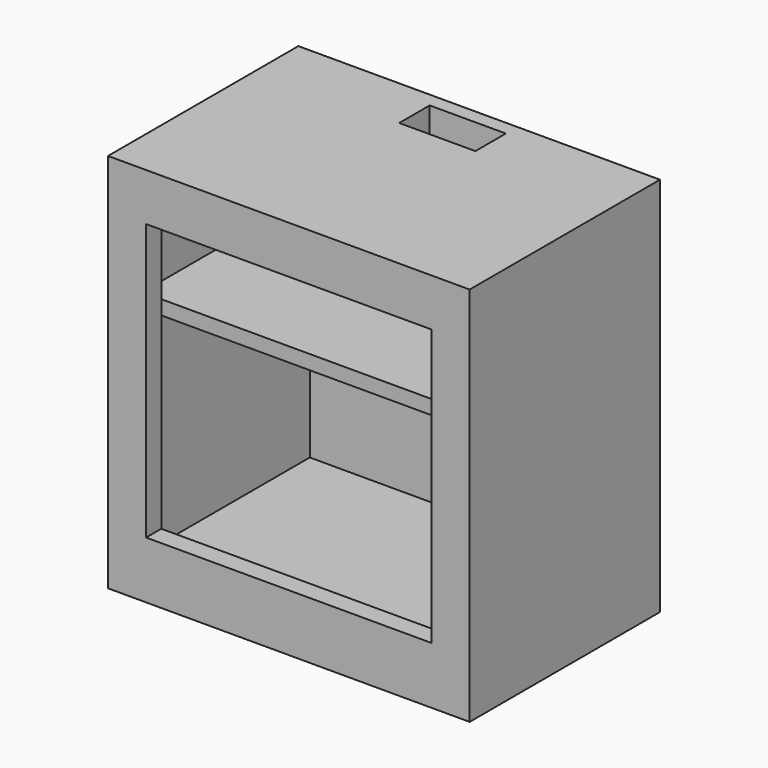
from build123d import *

# Parameters (mm, degrees)
F0_W      = 965.2
F0_H      = 635
F1_DEPTH  = 1016
F2_W      = 863.6
F2_H      = 863.6
F3_DEPTH  = 609.6
F4_W      = 203.2
F4_H      = 101.6
F5_DEPTH  = 762
F6_W      = 50.8
F6_H      = 1016
F7_DEPTH  = 101.6
F8_W      = 50.8
F8_H      = 1016
F9_DEPTH  = 101.6
F10_W     = 965.2
F10_H     = 50.8
F11_DEPTH = 152.4
F12_W     = 965.2
F12_H     = 50.8
F13_DEPTH = 127
F14_W     = 482.6
F14_H     = 38.1
F15_DEPTH = 965.2


with BuildPart() as f1:
    # F0 (on Top) → F1 (new body)
    with BuildSketch(Plane.XY):
        Rectangle(F0_W, F0_H)
    extrude(amount=F1_DEPTH)

    # F2 (on face) → F3 (cut)
    with BuildSketch(Plane.XZ.offset(317.5)):
        with Locations((0, 508)):
            Rectangle(F2_W, F2_H)
    extrude(amount=-F3_DEPTH, mode=Mode.SUBTRACT)

    # F4 (on face) → F5 (cut)
    with BuildSketch(Plane.XY.offset(1016)):
        with Locations((0, 228.6)):
            Rectangle(F4_W, F4_H)
    extrude(amount=-F5_DEPTH, mode=Mode.SUBTRACT)

    # F6 (on face) → F7 (join)
    with BuildSketch(Plane(origin=(-482.6, 0, 0), x_dir=(0, -1, 0), z_dir=(-1, 0, 0))):
        with Locations((292.1, 508)):
            Rectangle(F6_W, F6_H)
    extrude(amount=-F7_DEPTH)

    # F8 (on face) → F9 (join)
    with BuildSketch(Plane.YZ.offset(482.6)):
        with Locations((-292.1, 508)):
            Rectangle(F8_W, F8_H)
    extrude(amount=-F9_DEPTH)

    # F10 (on face) → F11 (join)
    with BuildSketch(Plane(origin=(0, 0, 0), x_dir=(1, 0, 0), z_dir=(0, 0, -1))):
        with Locations((0, 292.1)):
            Rectangle(F10_W, F10_H)
    extrude(amount=-F11_DEPTH)

    # F12 (on face) → F13 (join)
    with BuildSketch(Plane.XY.offset(1016)):
        with Locations((0, -292.1)):
            Rectangle(F12_W, F12_H)
    extrude(amount=-F13_DEPTH)

    # F14 (on face) → F15 (join)
    with BuildSketch(Plane(origin=(-482.6, 0, 0), x_dir=(0, -1, 0), z_dir=(-1, 0, 0))):
        with Locations((25.4, 672.77202)):
            Rectangle(F14_W, F14_H)
    extrude(amount=-F15_DEPTH)


solid = f1.part
